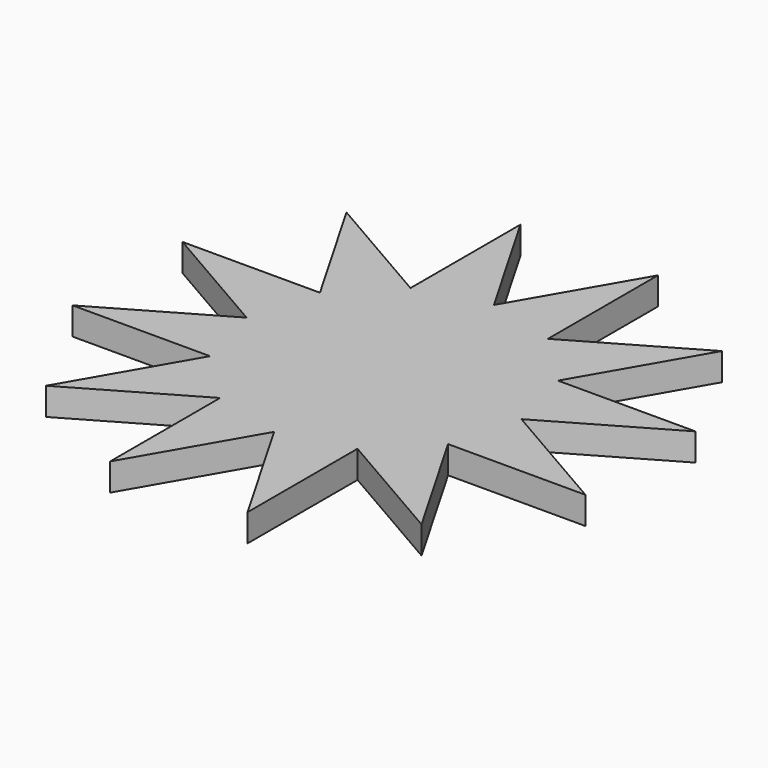
from build123d import *

# Parameters (mm, degrees)
F1_DEPTH = 2


with BuildPart() as f1:
    # F0 (on Top) → F1 (new body)
    with BuildSketch(Plane.XY):
        Polygon((0, 10), (-5, 18.660254), (-5, 8.660254), (-13.660254, 13.660254), (-8.660254, 5), (-18.660254, 5), (-10, 0), (-18.660254, -5), (-8.660254, -5), (-13.660254, -13.660254), (-5, -8.660254), (-5, -18.660254), (0, -10), (5, -18.660254), (5, -8.660254), (13.660254, -13.660254), (8.660254, -5), (18.660254, -5), (10, 0), (18.660254, 5), (8.660254, 5), (13.660254, 13.660254), (5, 8.660254), (5, 18.660254), align=None)
    extrude(amount=F1_DEPTH)


solid = f1.part
